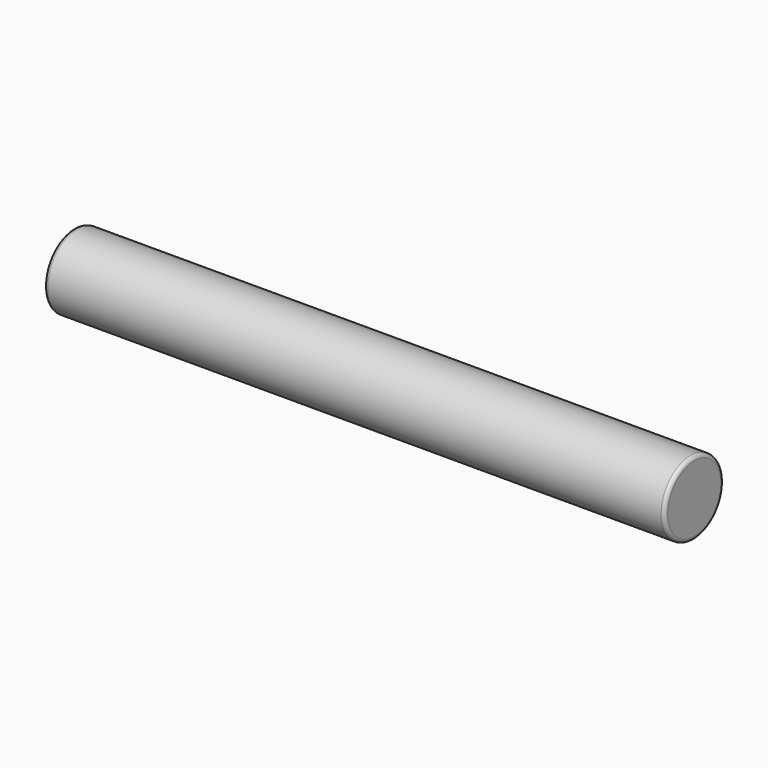
from build123d import *

# Parameters (mm, degrees)
F0_R          = 50
F1_DEPTH      = 420
F1_DEPTH_BACK = 420
F2_R          = 5


with BuildPart() as f1:
    # F0 (on Right) → F1 (new body, two sides)
    with BuildSketch(Plane.YZ) as f1_sk:
        Circle(F0_R)
    extrude(amount=F1_DEPTH)
    extrude(f1_sk.sketch, amount=-F1_DEPTH_BACK)

    # F2
    f2_edges = [f1.edges().sort_by_distance(p)[0] for p in [
        (420, -50, 0),
        (-420, -50, 0),
    ]]
    fillet(f2_edges, radius=F2_R)


solid = f1.part
